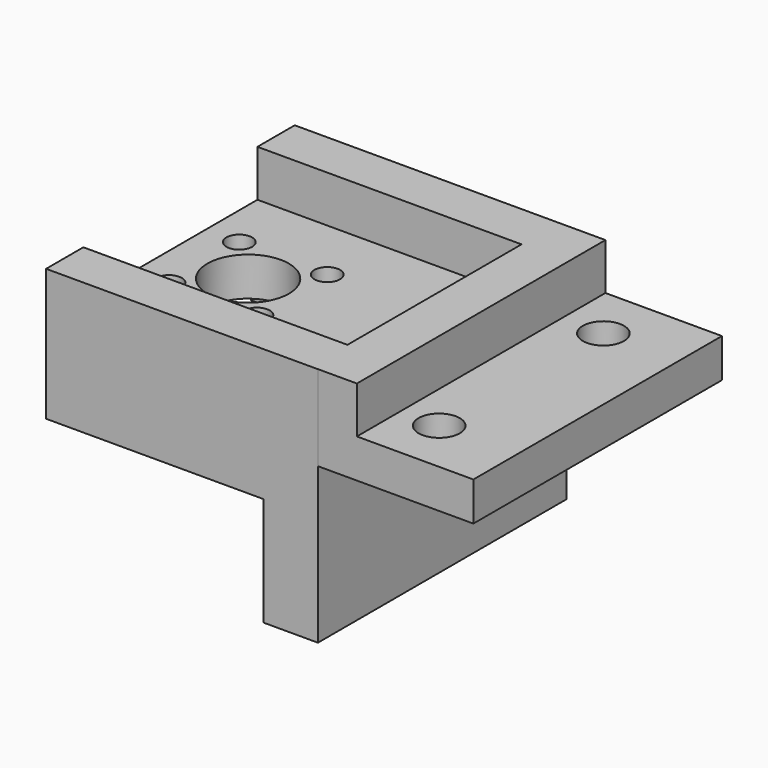
from build123d import *

# Parameters (mm, degrees)
F0_R     = 1.65
F0_R_2   = 5.25
F0_W     = 20
F0_H     = 40
F0_R_3   = 2.65
F1_DEPTH = 5
F2_W     = 6
F2_H     = 28.0157411588
F3_DEPTH = 6
F5_DEPTH = 20
F6_R     = 2.65
F7_DEPTH = 25
F9_DEPTH = 6


with BuildPart() as f1:
    # F0 (on Top) → F1 (new body)
    with BuildSketch(Plane.XY):
        Polygon((-69.0715216601, -47.4452535896), (-69.0715216601, -47.4295124308), (-69.0715216601, -7.4295124308), (-99.0715216601, -7.4295124308), (-104.0715216601, -7.4295124308), (-104.0715216601, -17.4295124308), (-104.0715216601, -37.4295124308), (-104.0715216601, -47.4452535896), (-99.1652225519, -47.4452535896), align=None)
        with Locations((-99.7324526625, -33.0822869872)):
            Circle(F0_R, mode=Mode.SUBTRACT)
        with Locations((-88.4105906576, -33.0822869872)):
            Circle(F0_R, mode=Mode.SUBTRACT)
        with Locations((-94.0715216601, -27.4295124308)):
            Circle(F0_R_2, mode=Mode.SUBTRACT)
        with Locations((-99.7324526625, -21.7767378744)):
            Circle(F0_R, mode=Mode.SUBTRACT)
        with Locations((-88.4105906576, -21.7767378744)):
            Circle(F0_R, mode=Mode.SUBTRACT)
        with Locations((-59.0715216601, -27.4295124308)):
            Rectangle(F0_W, F0_H)
        with Locations((-59.0715216601, -40.4295124308)):
            Circle(F0_R_3, mode=Mode.SUBTRACT)
        with Locations((-58.7309271957, -14.4295124308)):
            Circle(F0_R_3, mode=Mode.SUBTRACT)
    extrude(amount=F1_DEPTH)

    # F2 (on face) → F3 (join)
    with BuildSketch(Plane.XY.offset(5)):
        Polygon((-64.0715216601, -7.4295124308), (-104.0715216601, -7.4295124308), (-104.0715216601, -13.4295124308), (-70.0715216601, -13.4295124308), (-64.0715216601, -13.4295124308), align=None)
        with Locations((-67.0715216601, -27.4373830102)):
            Rectangle(F2_W, F2_H)
        Polygon((-70.0715216601, -41.4452535896), (-104.0715216601, -41.4452535896), (-104.0715216601, -47.4452535896), (-69.0715216601, -47.4452535896), (-69.0715216601, -47.4295124308), (-64.0715216601, -47.4295124308), (-64.0715216601, -41.4452535896), align=None)
    extrude(amount=F3_DEPTH)

    # F4 (on face) → F5 (join)
    with BuildSketch(Plane.XY):
        Polygon((-76.0715216601, -47.4452535896), (-69.0715216601, -47.4452535896), (-69.0715216601, -47.4295124308), (-69.0715216601, -7.4452535896), (-76.0715216601, -7.4452535896), align=None)
    extrude(amount=-F5_DEPTH)

    # F6 (on face) → F7 (cut)
    with BuildSketch(Plane(origin=(-76.0715216601, 0, 0), x_dir=(0, -1, 0), z_dir=(-1, 0, 0))):
        with Locations((27.4452535896, -10)):
            Circle(F6_R)
    extrude(amount=-F7_DEPTH, mode=Mode.SUBTRACT)

    # F8 (on face) → F9 (join)
    with BuildSketch(Plane.XY):
        Polygon((-99.1652225519, -47.4452535896), (-76.0715216601, -47.4452535896), (-76.0715216601, -40.4452535896), (-104.0715216601, -40.4452535896), (-104.0715216601, -47.4452535896), align=None)
        Polygon((-76.0715216601, -14.4295124308), (-76.0715216601, -7.4295124308), (-99.0715216601, -7.4295124308), (-104.0715216601, -7.4295124308), (-104.0715216601, -14.4295124308), align=None)
    extrude(amount=-F9_DEPTH)


solid = f1.part
